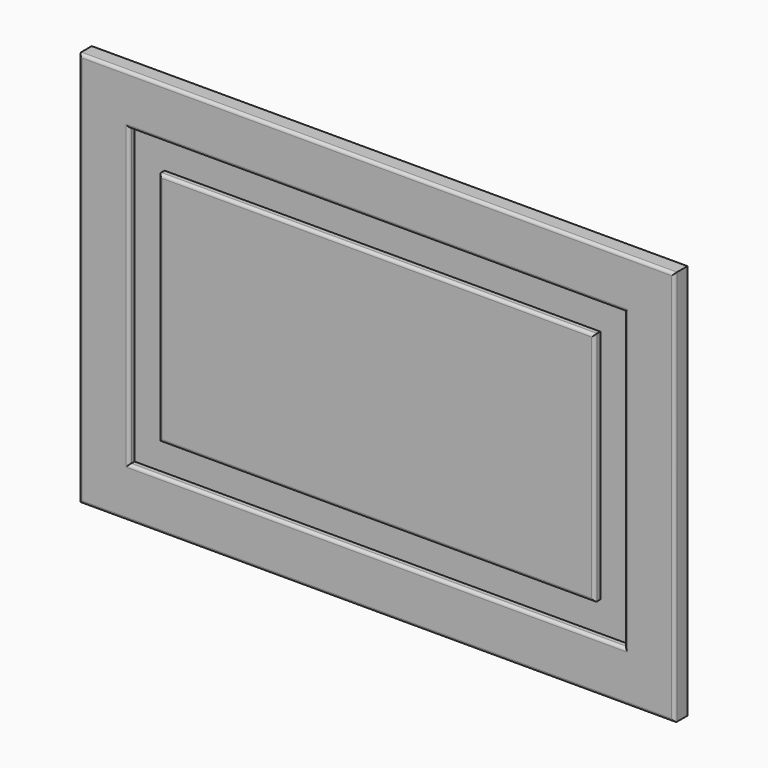
from build123d import *

# Parameters (mm, degrees)
F0_W      = 44.656470418
F0_H      = 33.8078811765
F1_DEPTH  = 16
F2_DEPTH  = 796
F3_DEPTH  = 196
F4_W      = 68.9578056335
F4_H      = 493.6993122101
F5_DEPTH  = 7
F6_DEPTH  = 9.7
F7_DEPTH  = 99.33
F8_DEPTH  = 99.33
F9_DEPTH  = 17.34
F10_DEPTH = 102.97
F11_W     = 35.2807044983
F11_H     = 492.0964837074
F12_DEPTH = 7
F13_DEPTH = 37.27
F14_DEPTH = 6.58
F15_DEPTH = 106.63
F16_DEPTH = 5.87
F17_DEPTH = 200
F18_DEPTH = 200
F19_DEPTH = 200
F20_DEPTH = 200
F21_DEPTH = 200
F22_DEPTH = 200
F23_DEPTH = 600
F24_DEPTH = 600
F25_DEPTH = 600
F26_DEPTH = 200
F27_DEPTH = 200
F28_DEPTH = 200
F29_R     = 3


with BuildPart() as f1:
    # F0 (on Front) → F1 (new body)
    with BuildSketch(Plane.XZ):
        with Locations((22.328235209, 16.9039405882)):
            Rectangle(F0_W, F0_H)
    extrude(amount=F1_DEPTH)

    # F2 (add): a face of the model
    f2_faces = [f1.faces().sort_by_distance(p)[0] for p in [
        (22.328235209, -8, 0),
    ]]
    extrude(f2_faces, amount=-F2_DEPTH)

    # F3 (add): a face of the model
    f3_faces = [f1.faces().sort_by_distance(p)[0] for p in [
        (0, -8, 398),
    ]]
    extrude(f3_faces, amount=-F3_DEPTH)

    # F4 (on face) → F5 (cut)
    with BuildSketch(Plane.XZ.offset(16)):
        with Locations((94.1769480705, 399.8196721077)):
            Rectangle(F4_W, F4_H)
    extrude(amount=-F5_DEPTH, mode=Mode.SUBTRACT)

    # F6 (cut): a face of the model
    f6_faces = [f1.faces().sort_by_distance(p)[0] for p in [
        (59.6980452538, -12.5, 399.8196721077),
    ]]
    extrude(f6_faces, amount=-F6_DEPTH, mode=Mode.SUBTRACT)

    # F7 (add): a face of the model
    f7_faces = [f1.faces().sort_by_distance(p)[0] for p in [
        (89.3269480705, -12.5, 646.6693282127),
    ]]
    extrude(f7_faces, amount=-F7_DEPTH)

    # F8 (cut): a face of the model
    f8_faces = [f1.faces().sort_by_distance(p)[0] for p in [
        (89.3269480705, -12.5, 646.6693282127),
    ]]
    extrude(f8_faces, amount=-F8_DEPTH, mode=Mode.SUBTRACT)

    # F9 (cut): a face of the model
    f9_faces = [f1.faces().sort_by_distance(p)[0] for p in [
        (128.6558508873, -12.5, 449.4846721077),
    ]]
    extrude(f9_faces, amount=-F9_DEPTH, mode=Mode.SUBTRACT)

    # F10 (cut): a face of the model
    f10_faces = [f1.faces().sort_by_distance(p)[0] for p in [
        (97.9969480705, -12.5, 152.9700160027),
    ]]
    extrude(f10_faces, amount=-F10_DEPTH, mode=Mode.SUBTRACT)

    # F11 (on face) → F12 (join)
    with BuildSketch(Plane.XZ.offset(9)):
        with Locations((91.7714834213, 432.6795041561)):
            Rectangle(F11_W, F11_H)
    extrude(amount=F12_DEPTH)

    # F13 (add): a face of the model
    f13_faces = [f1.faces().sort_by_distance(p)[0] for p in [
        (91.7714834213, -12.5, 678.7277460098),
    ]]
    extrude(f13_faces, amount=F13_DEPTH)

    # F14 (add): a face of the model
    f14_faces = [f1.faces().sort_by_distance(p)[0] for p in [
        (109.4118356705, -12.5, 451.3145041561),
    ]]
    extrude(f14_faces, amount=F14_DEPTH)

    # F15 (add): a face of the model
    f15_faces = [f1.faces().sort_by_distance(p)[0] for p in [
        (95.0614834213, -12.5, 186.6312623024),
    ]]
    extrude(f15_faces, amount=F15_DEPTH)

    # F16 (cut): a face of the model
    f16_faces = [f1.faces().sort_by_distance(p)[0] for p in [
        (74.1311311722, -12.5, 397.9995041561),
    ]]
    extrude(f16_faces, amount=-F16_DEPTH, mode=Mode.SUBTRACT)

    # F17 (add): a face of the model
    f17_faces = [f1.faces().sort_by_distance(p)[0] for p in [
        (196, -8, 398),
    ]]
    extrude(f17_faces, amount=F17_DEPTH)

    # F18 (cut): a face of the model
    f18_faces = [f1.faces().sort_by_distance(p)[0] for p in [
        (145.9958508873, -12.5, 397.9996721077),
    ]]
    extrude(f18_faces, amount=-F18_DEPTH, mode=Mode.SUBTRACT)

    # F19 (add): a face of the model
    f19_faces = [f1.faces().sort_by_distance(p)[0] for p in [
        (115.9918356705, -12.5, 397.9995041561),
    ]]
    extrude(f19_faces, amount=F19_DEPTH)

    # F20 (add): a face of the model
    f20_faces = [f1.faces().sort_by_distance(p)[0] for p in [
        (396, -8, 398),
    ]]
    extrude(f20_faces, amount=F20_DEPTH)

    # F21 (cut): a face of the model
    f21_faces = [f1.faces().sort_by_distance(p)[0] for p in [
        (345.9958508873, -12.5, 397.9996721077),
    ]]
    extrude(f21_faces, amount=-F21_DEPTH, mode=Mode.SUBTRACT)

    # F22 (add): a face of the model
    f22_faces = [f1.faces().sort_by_distance(p)[0] for p in [
        (315.9918356705, -12.5, 397.9995041561),
    ]]
    extrude(f22_faces, amount=F22_DEPTH)

    # F23 (cut): a face of the model
    f23_faces = [f1.faces().sort_by_distance(p)[0] for p in [
        (297.9964834213, -12.5, 80.0012623024),
    ]]
    extrude(f23_faces, amount=-F23_DEPTH, mode=Mode.SUBTRACT)

    # F24 (add): a face of the model
    f24_faces = [f1.faces().sort_by_distance(p)[0] for p in [
        (297.9969480705, -12.5, 50.0000160027),
    ]]
    extrude(f24_faces, amount=F24_DEPTH)

    # F25 (cut): a face of the model
    f25_faces = [f1.faces().sort_by_distance(p)[0] for p in [
        (298, -8, 0),
    ]]
    extrude(f25_faces, amount=-F25_DEPTH, mode=Mode.SUBTRACT)

    # F26 (add): a face of the model
    f26_faces = [f1.faces().sort_by_distance(p)[0] for p in [
        (298, -8, 600),
    ]]
    extrude(f26_faces, amount=F26_DEPTH)

    # F27 (cut): a face of the model
    f27_faces = [f1.faces().sort_by_distance(p)[0] for p in [
        (297.9969480705, -12.5, 650.0000160027),
    ]]
    extrude(f27_faces, amount=-F27_DEPTH, mode=Mode.SUBTRACT)

    # F28 (add): a face of the model
    f28_faces = [f1.faces().sort_by_distance(p)[0] for p in [
        (297.9964834213, -12.5, 680.0012623024),
    ]]
    extrude(f28_faces, amount=F28_DEPTH)

    # F29
    f29_edges = [f1.edges().sort_by_distance(p)[0] for p in [
        (297.996483, -16, 715.997746),
        (80.001131, -16, 597.999504),
        (297.996483, -16, 480.001262),
        (515.991836, -16, 597.999504),
        (0, -16, 598),
        (298, -16, 400),
        (596, -16, 598),
        (298, -16, 796),
        (49.998045, -16, 597.999672),
        (297.996948, -16, 745.999328),
        (545.995851, -16, 597.999672),
        (297.996948, -16, 450.000016),
    ]]
    fillet(f29_edges, radius=F29_R)


solid = f1.part
